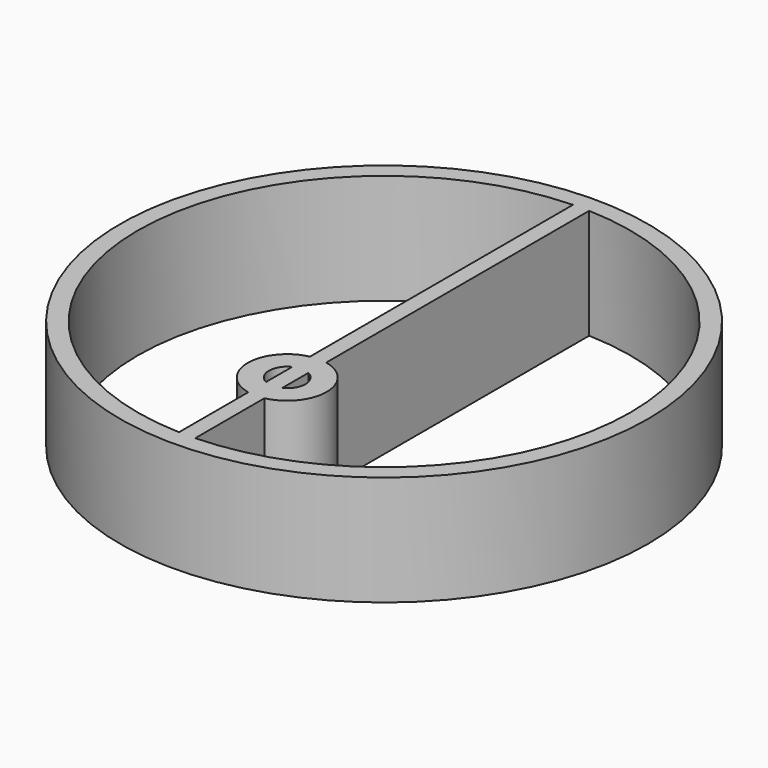
from build123d import *

# Parameters (mm, degrees)
F0_R     = 60
F1_DEPTH = 25


with BuildPart() as f1:
    # F0 (on Top) → F1 (new body)
    with BuildSketch(Plane.XY):
        Circle(F0_R)
        with BuildLine():
            ThreePointArc((-1.842674, -31.245442), (-4.150552, -27.526351), (-1.842674, -23.80726))
            Line((-1.842674, -23.80726), (-1.842674, -31.245442))
        make_face(mode=Mode.SUBTRACT)
        with BuildLine():
            ThreePointArc((-1.842674, -55.969675), (-56, 0), (-1.842674, 55.969675))
            Line((-1.842674, 55.969675), (-1.842674, -18.756511))
            ThreePointArc((-1.842674, -18.756511), (-8.961336, -27.526351), (-1.842674, -36.296191))
            Line((-1.842674, -36.296191), (-1.842674, -55.969675))
        make_face(mode=Mode.SUBTRACT)
        with BuildLine():
            Line((1.842674, -31.245442), (1.842674, -23.80726))
            ThreePointArc((1.842674, -23.80726), (4.150552, -27.526351), (1.842674, -31.245442))
        make_face(mode=Mode.SUBTRACT)
        with BuildLine():
            Line((1.842674, -18.756511), (1.842674, 55.969675))
            ThreePointArc((1.842674, 55.969675), (56, 0), (1.842674, -55.969675))
            Line((1.842674, -55.969675), (1.842674, -36.296191))
            ThreePointArc((1.842674, -36.296191), (8.961336, -27.526351), (1.842674, -18.756511))
        make_face(mode=Mode.SUBTRACT)
    extrude(amount=F1_DEPTH)


solid = f1.part
